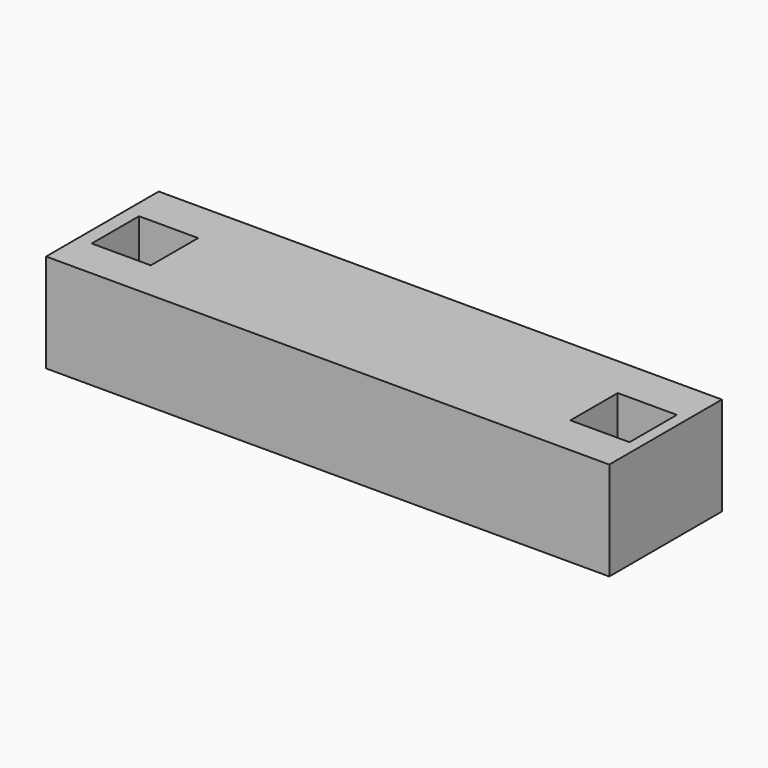
from build123d import *

# Parameters (mm, degrees)
F0_W     = 40
F0_H     = 10
F1_DEPTH = 2
F2_W     = 40
F2_H     = 10
F2_W_2   = 4.2
F2_H_2   = 4.2
F3_DEPTH = 5


with BuildPart() as f1:
    # F0 (on Top) → F1 (new body)
    with BuildSketch(Plane.XY):
        with Locations((-20.837137, 17.479707)):
            Rectangle(F0_W, F0_H)
    extrude(amount=F1_DEPTH)

    # F2 (on face) → F3 (join)
    with BuildSketch(Plane.XY.offset(2)):
        with Locations((-20.837137, 17.479707)):
            Rectangle(F2_W, F2_H)
        with Locations((-37.737137, 17.379707)):
            Rectangle(F2_W_2, F2_H_2, mode=Mode.SUBTRACT)
        with Locations((-3.737137, 17.379707)):
            Rectangle(F2_W_2, F2_H_2, mode=Mode.SUBTRACT)
    extrude(amount=F3_DEPTH)


solid = f1.part
